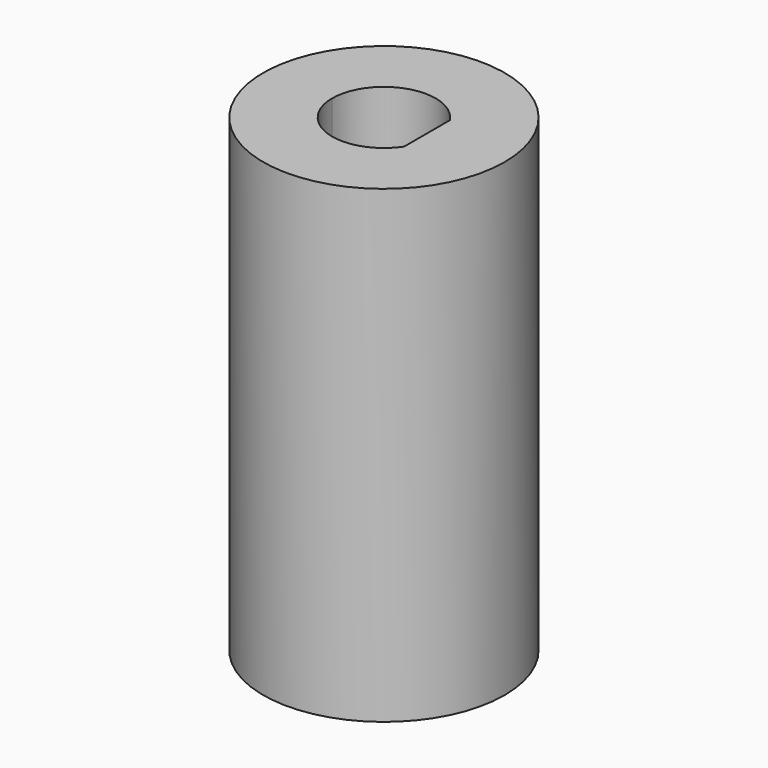
from build123d import *

# Parameters (mm, degrees)
F0_R     = 7
F1_DEPTH = 14.2
F2_R     = 7
F2_R_2   = 5
F3_DEPTH = 3
F4_R     = 7
F4_R_2   = 5
F4_W     = 3.2
F4_H     = 3.2
F5_DEPTH = 10
F6_R     = 0.5


with BuildPart() as f1:
    # F0 (on Top) → F1 (new body)
    with BuildSketch(Plane.XY):
        Circle(F0_R)
        with BuildLine():
            ThreePointArc((2.5, 1.6583123952), (2.8722813233, 0.8660254038), (3, 0))
            ThreePointArc((3, 0), (2.8722813233, -0.8660254038), (2.5, -1.6583123952))
            ThreePointArc((2.5, -1.6583123952), (-0.8660254038, -2.8722813233), (-3, 0))
            ThreePointArc((-3, 0), (-0.8660254038, 2.8722813233), (2.5, 1.6583123952))
        make_face(mode=Mode.SUBTRACT)
        with BuildLine():
            ThreePointArc((2.5, -1.6583123952), (2.8722813233, -0.8660254038), (3, 0))
            ThreePointArc((3, 0), (2.8722813233, 0.8660254038), (2.5, 1.6583123952))
            Line((2.5, 1.6583123952), (2.5, 0))
            Line((2.5, 0), (2.5, -1.6583123952))
        make_face()
    extrude(amount=F1_DEPTH)

    # F2 (on face) → F3 (join)
    with BuildSketch(Plane(origin=(0, 0, 0), x_dir=(1, 0, 0), z_dir=(0, 0, -1))):
        Circle(F2_R)
        Circle(F2_R_2, mode=Mode.SUBTRACT)
        Circle(F2_R_2)
        with BuildLine():
            ThreePointArc((2.5, -1.6583123952), (-3, 0), (2.5, 1.6583123952))
            Line((2.5, 1.6583123952), (2.5, -1.6583123952))
        make_face(mode=Mode.SUBTRACT)
        with BuildLine():
            Line((2.5, -1.6583123952), (2.5, 1.6583123952))
            ThreePointArc((2.5, 1.6583123952), (-3, 0), (2.5, -1.6583123952))
        make_face()
    extrude(amount=F3_DEPTH)

    # F4 (on face) → F5 (join)
    with BuildSketch(Plane(origin=(0, 0, -3), x_dir=(1, 0, 0), z_dir=(0, 0, -1))):
        Circle(F4_R)
        Circle(F4_R_2, mode=Mode.SUBTRACT)
        Circle(F4_R_2)
        Rectangle(F4_W, F4_H, mode=Mode.SUBTRACT)
    extrude(amount=F5_DEPTH)

    # F6
    f6_edges = [f1.edges().sort_by_distance(p)[0] for p in [
        (-1.6, -1.6, -8),
        (-1.6, 1.6, -8),
        (1.6, -1.6, -8),
        (1.6, 1.6, -8),
    ]]
    fillet(f6_edges, radius=F6_R)


solid = f1.part
